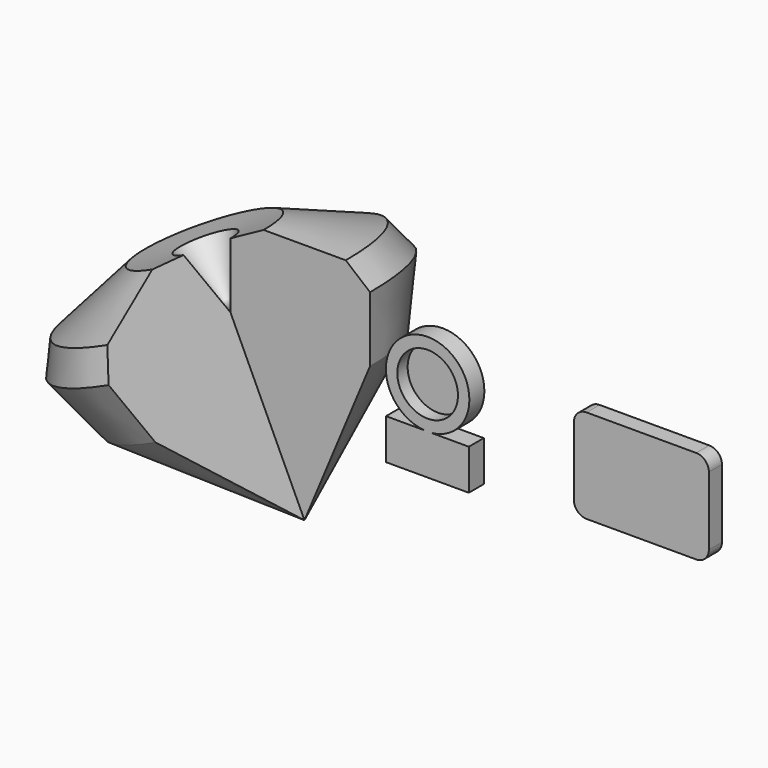
from build123d import *

# Parameters (mm, degrees)
F1_DEPTH = 37.592
F2_R     = 60.8514861747
F3_DEPTH = 25.908
F5_DEPTH = 32.766
F7_ANGLE = 270


with BuildPart() as f1:
    # F0 (on Front) → F1 (new body)
    with BuildSketch(Plane.XZ):
        with BuildLine():
            ThreePointArc((-121.7336990495, 137.5389695168), (-262.4113939912, 199.0333841631), (-212.0080255497, 54.0117397904))
            Line((-212.0080255497, 54.0117397904), (-205.5130675435, 54.0117397904))
            Line((-205.5130675435, 54.0117397904), (-199.0181095374, 54.0117397904))
            ThreePointArc((-199.0181095374, 54.0117397904), (-144.0186528971, 80.640643069), (-121.7336990495, 137.5389695168))
        make_face()
        with BuildLine():
            ThreePointArc((-121.9858378172, 137.5389695168), (-146.4503969903, 78.4762989635), (-205.5130675435, 54.0117397904))
            ThreePointArc((-205.5130675435, 54.0117397904), (-264.5757380967, 196.60164007), (-121.9858378172, 137.5389695168))
        make_face(mode=Mode.SUBTRACT)
        with BuildLine():
            ThreePointArc((-121.9858378172, 137.5389695168), (-264.5757380967, 196.60164007), (-205.5130675435, 54.0117397904))
            ThreePointArc((-205.5130675435, 54.0117397904), (-146.4503969903, 78.4762989635), (-121.9858378172, 137.5389695168))
        make_face()
        with BuildLine():
            Line((-212.0080255497, 54.0117397904), (-289.0402972698, 54.0117397904))
            Line((-289.0402972698, 54.0117397904), (-289.0402972698, -27.3608770221))
            Line((-289.0402972698, -27.3608770221), (-122.8653863072, -27.3608770221))
            Line((-122.8653863072, -27.3608770221), (-122.8653863072, 54.0117397904))
            Line((-122.8653863072, 54.0117397904), (-199.0181095374, 54.0117397904))
            ThreePointArc((-199.0181095374, 54.0117397904), (-205.5130675435, 53.7596010227), (-212.0080255497, 54.0117397904))
        make_face()
        with BuildLine():
            Line((-205.5130675435, 54.0117397904), (-212.0080255497, 54.0117397904))
            ThreePointArc((-212.0080255497, 54.0117397904), (-205.5130675435, 53.7596010227), (-199.0181095374, 54.0117397904))
            Line((-199.0181095374, 54.0117397904), (-205.5130675435, 54.0117397904))
        make_face()
    extrude(amount=F1_DEPTH)

    # F2 (on face) → F3 (cut)
    with BuildSketch(Plane.XZ.offset(37.592)):
        with Locations((-205.5130675435, 137.5389695168)):
            Circle(F2_R)
    extrude(amount=-F3_DEPTH, mode=Mode.SUBTRACT)


with BuildPart() as f5:
    # F4 (on Front) → F5 (new body)
    with BuildSketch(Plane.XZ):
        with BuildLine():
            Line((329.6588488579, 188.2283219576), (109.5676816344, 188.2283219576))
            ThreePointArc((109.5676816344, 188.2283219576), (91.6071693923, 180.7888341997), (84.1676816344, 162.8283219576))
            Line((84.1676816344, 162.8283219576), (84.1676816344, 25.4))
            ThreePointArc((84.1676816344, 25.4), (91.6071693923, 7.4394877579), (109.5676816344, 0))
            Line((109.5676816344, 0), (329.6588488579, 0))
            ThreePointArc((329.6588488579, 0), (347.6193611, 7.4394877579), (355.0588488579, 25.4))
            Line((355.0588488579, 25.4), (355.0588488579, 162.8283219576))
            ThreePointArc((355.0588488579, 162.8283219576), (347.6193611, 180.7888341997), (329.6588488579, 188.2283219576))
        make_face()
    extrude(amount=F5_DEPTH)


with BuildPart() as f7:
    # F6 (on Front) → F7 (revolve)
    with BuildSketch(Plane.XZ):
        Polygon((-631.3360333443, 241.5230721235), (-631.3360333443, 110.7161492109), (-482.8225632304, -208.2295247785), (-351.1602282524, 106.964148581), (-351.1602282524, 237.5081926584), (-399.906784296, 278.0184149742), (-564.8713707924, 278.0184149742), align=None)
    revolve(axis=Axis((-557.0792982873, 0, -48.7566877838), (-0.4221201234, 0, 0.9065399061)), revolution_arc=F7_ANGLE)


solid = Compound([f1.part, f5.part, f7.part])
